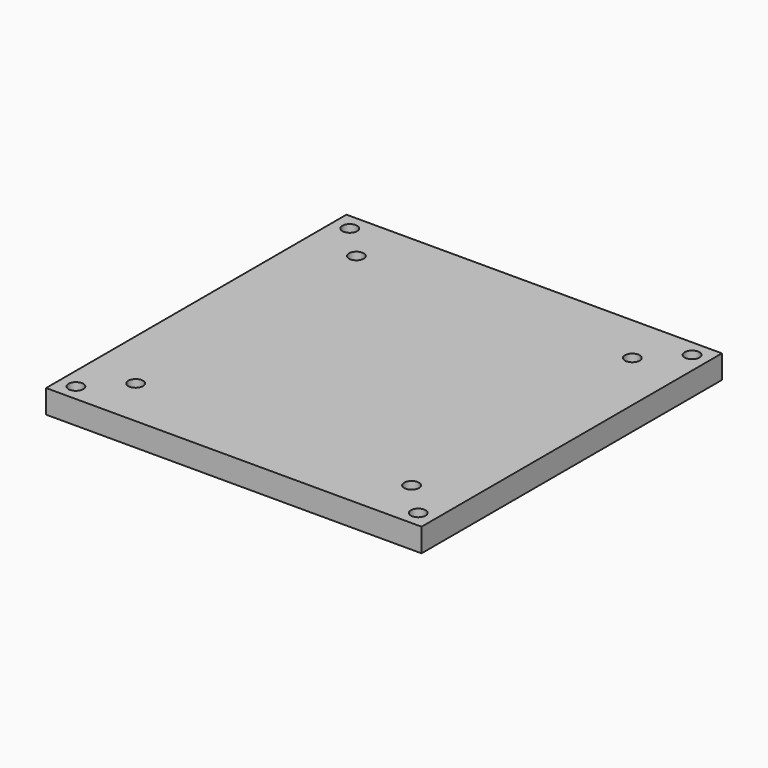
from build123d import *

# Parameters (mm, degrees)
F0_W     = 101.6
F0_H     = 101.6
F0_R     = 1.9939
F1_DEPTH = 6.35


with BuildPart() as f1:
    # F0 (on Top) → F1 (new body)
    with BuildSketch(Plane.XY):
        Rectangle(F0_W, F0_H)
        with Locations((-46.309872, -46.309872)):
            Circle(F0_R, mode=Mode.SUBTRACT)
        with Locations((-37.329616, -37.329616)):
            Circle(F0_R, mode=Mode.SUBTRACT)
        with Locations((46.309872, -46.309872)):
            Circle(F0_R, mode=Mode.SUBTRACT)
        with Locations((37.329616, -37.329616)):
            Circle(F0_R, mode=Mode.SUBTRACT)
        with Locations((-37.329616, 37.329616)):
            Circle(F0_R, mode=Mode.SUBTRACT)
        with Locations((-46.309872, 46.309872)):
            Circle(F0_R, mode=Mode.SUBTRACT)
        with Locations((37.329616, 37.329616)):
            Circle(F0_R, mode=Mode.SUBTRACT)
        with Locations((46.309872, 46.309872)):
            Circle(F0_R, mode=Mode.SUBTRACT)
    extrude(amount=F1_DEPTH)


solid = f1.part
